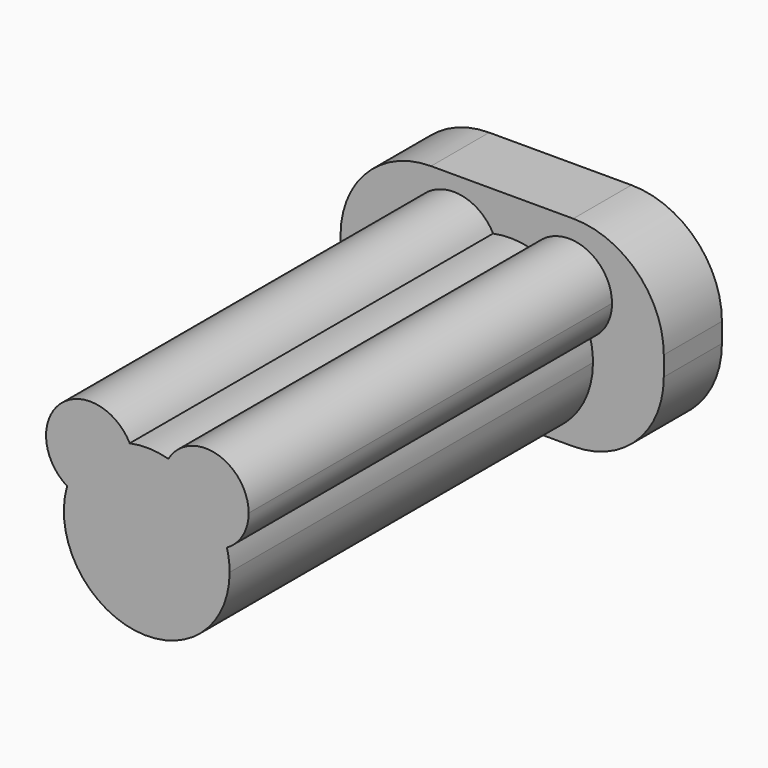
from build123d import *

# Parameters (mm, degrees)
F1_DEPTH      = 57.7
F2_W          = 37.0757319033
F2_H          = 8.3348543849
F3_DEPTH      = 9.1
F3_DEPTH_BACK = 13.9
F4_R          = 10.3811183182


with BuildPart() as f1:
    # F0 (on Front) → F1 (new body)
    with BuildSketch(Plane.XZ):
        with BuildLine():
            ThreePointArc((-8.50842429, -2.055534725), (-0.7108667363, -14.1083254953), (10.1285676568, -4.696719299))
            ThreePointArc((10.1285676568, -4.696719299), (10.0511987024, -3.4863896128), (9.8203512915, -2.2957623088))
            ThreePointArc((9.8203512915, -2.2957623088), (3.867574575, -1.4815476648), (3.107728587, 4.4784129221))
            ThreePointArc((3.107728587, 4.4784129221), (0.8974187737, 4.8049632632), (-1.3280566308, 4.6065600879))
            ThreePointArc((-1.3280566308, 4.6065600879), (-0.9040034744, 3.4731229743), (-0.7599296961, 2.2715641883))
            ThreePointArc((-0.7599296961, 2.2715641883), (-3.3643453928, -2.1658605569), (-8.50842429, -2.055534725))
        make_face()
        with BuildLine():
            ThreePointArc((-1.3280566308, 4.6065600879), (-5.8423978144, 2.2715641883), (-8.50842429, -2.055534725))
            ThreePointArc((-8.50842429, -2.055534725), (-3.3643453928, -2.1658605569), (-0.7599296961, 2.2715641883))
            ThreePointArc((-0.7599296961, 2.2715641883), (-0.9040034744, 3.4731229743), (-1.3280566308, 4.6065600879))
        make_face()
        with BuildLine():
            ThreePointArc((3.107728587, 4.4784129221), (3.867574575, -1.4815476648), (9.8203512915, -2.2957623088))
            ThreePointArc((9.8203512915, -2.2957623088), (7.3750342072, 1.9940419619), (3.107728587, 4.4784129221))
        make_face()
        with BuildLine():
            ThreePointArc((3.107728587, 4.4784129221), (7.3750342072, 1.9940419619), (9.8203512915, -2.2957623088))
            ThreePointArc((9.8203512915, -2.2957623088), (11.6444905303, -0.4866311381), (12.3128471161, 1.9940419619))
            ThreePointArc((12.3128471161, 1.9940419619), (8.6616653793, 6.761281892), (3.107728587, 4.4784129221))
        make_face()
        with BuildLine():
            ThreePointArc((-1.3280566308, 4.6065600879), (-9.2992668658, 5.9973578668), (-8.50842429, -2.055534725))
            ThreePointArc((-8.50842429, -2.055534725), (-5.8423978144, 2.2715641883), (-1.3280566308, 4.6065600879))
        make_face()
    extrude(amount=F1_DEPTH)

    # F2 (on Top) → F3 (join, two sides)
    with BuildSketch(Plane.XY) as f3_sk:
        with Locations((-0.2874098718, -1.4370438876)):
            Rectangle(F2_W, F2_H)
    extrude(amount=F3_DEPTH)
    extrude(f3_sk.sketch, amount=-F3_DEPTH_BACK)

    # F4
    f4_edges = [f1.edges().sort_by_distance(p)[0] for p in [
        (-18.825276, -1.437044, -13.9),
        (-18.825276, -1.437044, 9.1),
        (18.250456, -1.437044, 9.1),
        (18.250456, -1.437044, -13.9),
    ]]
    fillet(f4_edges, radius=F4_R)


solid = f1.part
